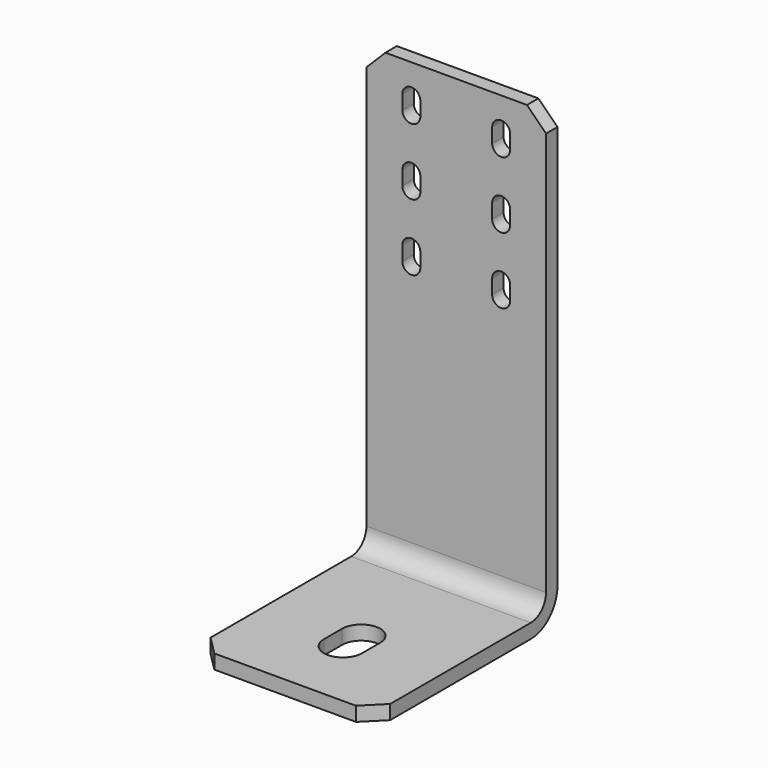
from build123d import *

# Parameters (mm, degrees)
F1_DEPTH = 30
F2_R     = 6.35
F3_R     = 11.1125
F4_SIZE  = 6.35
F6_DEPTH = 4.7635
F7_DEPTH = 4.7635
F9_DEPTH = 4.7635


with BuildPart() as f1:
    # F0 (on Right) → F1 (new body, symmetric)
    with BuildSketch(Plane.YZ):
        Polygon((-2.38125, 2.38125), (-73.81875, 2.38125), (-73.81875, -2.38125), (2.38125, -2.38125), (2.38125, 150.01875), (-2.38125, 150.01875), align=None)
    extrude(amount=F1_DEPTH, both=True)

    # F2
    f2_edges = [f1.edges().sort_by_distance(p)[0] for p in [
        (0, -2.38125, 2.38125),
    ]]
    fillet(f2_edges, radius=F2_R)

    # F3
    f3_edges = [f1.edges().sort_by_distance(p)[0] for p in [
        (0, 2.38125, -2.38125),
    ]]
    fillet(f3_edges, radius=F3_R)

    # F4
    f4_edges = [f1.edges().sort_by_distance(p)[0] for p in [
        (30, 0, 150.01875),
        (-30, 0, 150.01875),
        (-30, -73.81875, 0),
        (30, -73.81875, 0),
    ]]
    chamfer(f4_edges, length=F4_SIZE)

    # F5 (on face) → F6 (cut, through all)
    with BuildSketch(Plane.XY.offset(2.38125)):
        with BuildLine():
            ThreePointArc((5.08, -45.87875), (6.0241389426, -44.0767963142), (6.35, -42.06875))
            ThreePointArc((6.35, -42.06875), (0, -35.71875), (-6.35, -42.06875))
            ThreePointArc((-6.35, -42.06875), (-6.0241389426, -44.0767963142), (-5.08, -45.87875))
            ThreePointArc((-5.08, -45.87875), (0, -43.33875), (5.08, -45.87875))
        make_face()
        with BuildLine():
            Line((6.35, -49.68875), (6.35, -42.06875))
            ThreePointArc((6.35, -42.06875), (6.0241389426, -44.0767963142), (5.08, -45.87875))
            ThreePointArc((5.08, -45.87875), (6.0241389426, -47.6807036858), (6.35, -49.68875))
        make_face()
        with BuildLine():
            ThreePointArc((-5.08, -45.87875), (-6.0241389426, -44.0767963142), (-6.35, -42.06875))
            Line((-6.35, -42.06875), (-6.35, -49.68875))
            ThreePointArc((-6.35, -49.68875), (-6.0241389426, -47.6807036858), (-5.08, -45.87875))
        make_face()
        with BuildLine():
            ThreePointArc((6.35, -49.68875), (6.0241389426, -47.6807036858), (5.08, -45.87875))
            ThreePointArc((5.08, -45.87875), (0, -48.41875), (-5.08, -45.87875))
            ThreePointArc((-5.08, -45.87875), (-6.0241389426, -47.6807036858), (-6.35, -49.68875))
            ThreePointArc((-6.35, -49.68875), (0, -56.03875), (6.35, -49.68875))
        make_face()
    extrude(amount=-F6_DEPTH, mode=Mode.SUBTRACT)

    # F5 (on face) + F6_face (on face) → F7 (cut, through all)
    with BuildSketch(Plane.XY.offset(2.38125)):
        with BuildLine():
            ThreePointArc((5.08, -45.87875), (6.0241389426, -44.0767963142), (6.35, -42.06875))
            ThreePointArc((6.35, -42.06875), (0, -35.71875), (-6.35, -42.06875))
            ThreePointArc((-6.35, -42.06875), (-6.0241389426, -44.0767963142), (-5.08, -45.87875))
            ThreePointArc((-5.08, -45.87875), (0, -43.33875), (5.08, -45.87875))
        make_face()
        with BuildLine():
            Line((6.35, -49.68875), (6.35, -42.06875))
            ThreePointArc((6.35, -42.06875), (6.0241389426, -44.0767963142), (5.08, -45.87875))
            ThreePointArc((5.08, -45.87875), (6.0241389426, -47.6807036858), (6.35, -49.68875))
        make_face()
        with BuildLine():
            ThreePointArc((-5.08, -45.87875), (-6.0241389426, -44.0767963142), (-6.35, -42.06875))
            Line((-6.35, -42.06875), (-6.35, -49.68875))
            ThreePointArc((-6.35, -49.68875), (-6.0241389426, -47.6807036858), (-5.08, -45.87875))
        make_face()
        with BuildLine():
            ThreePointArc((6.35, -49.68875), (6.0241389426, -47.6807036858), (5.08, -45.87875))
            ThreePointArc((5.08, -45.87875), (0, -48.41875), (-5.08, -45.87875))
            ThreePointArc((-5.08, -45.87875), (-6.0241389426, -47.6807036858), (-6.35, -49.68875))
            ThreePointArc((-6.35, -49.68875), (0, -56.03875), (6.35, -49.68875))
        make_face()
    with BuildSketch(Plane(origin=(0, -45.87875, 2.38125), x_dir=(1, 0, 0), z_dir=(0, 0, 1))):
        with BuildLine():
            ThreePointArc((5.08, 0), (0, 2.54), (-5.08, 0))
            ThreePointArc((-5.08, 0), (0, -2.54), (5.08, 0))
        make_face()
    extrude(amount=-F7_DEPTH, mode=Mode.SUBTRACT)

    # F8 (on face) → F9 (cut, through all)
    with BuildSketch(Plane.XZ.offset(2.38125)):
        with BuildLine():
            ThreePointArc((-16.8201253466, 137.31875), (-17.686865044, 138.371856907), (-17.9972, 139.7))
            Line((-17.9972, 139.7), (-17.9972, 134.9375))
            ThreePointArc((-17.9972, 134.9375), (-17.686865044, 136.265643093), (-16.8201253466, 137.31875))
        make_face()
        with BuildLine():
            Line((-12.0028, 134.9375), (-12.0028, 139.7))
            ThreePointArc((-12.0028, 139.7), (-12.313134956, 138.371856907), (-13.1798746534, 137.31875))
            ThreePointArc((-13.1798746534, 137.31875), (-12.313134956, 136.265643093), (-12.0028, 134.9375))
        make_face()
        with BuildLine():
            ThreePointArc((-13.1798746534, 115.09375), (-12.313134956, 114.040643093), (-12.0028, 112.7125))
            Line((-12.0028, 112.7125), (-12.0028, 117.475))
            ThreePointArc((-12.0028, 117.475), (-12.313134956, 116.146856907), (-13.1798746534, 115.09375))
        make_face()
        with BuildLine():
            Line((-17.9972, 117.475), (-17.9972, 112.7125))
            ThreePointArc((-17.9972, 112.7125), (-17.686865044, 114.040643093), (-16.8201253466, 115.09375))
            ThreePointArc((-16.8201253466, 115.09375), (-17.686865044, 116.146856907), (-17.9972, 117.475))
        make_face()
        with BuildLine():
            ThreePointArc((-13.1798746534, 92.86875), (-12.313134956, 91.815643093), (-12.0028, 90.4875))
            Line((-12.0028, 90.4875), (-12.0028, 95.25))
            ThreePointArc((-12.0028, 95.25), (-12.313134956, 93.921856907), (-13.1798746534, 92.86875))
        make_face()
        with BuildLine():
            Line((-17.9972, 95.25), (-17.9972, 90.4875))
            ThreePointArc((-17.9972, 90.4875), (-17.686865044, 91.815643093), (-16.8201253466, 92.86875))
            ThreePointArc((-16.8201253466, 92.86875), (-17.686865044, 93.921856907), (-17.9972, 95.25))
        make_face()
        with BuildLine():
            ThreePointArc((13.1798746534, 92.86875), (12.313134956, 93.921856907), (12.0028, 95.25))
            Line((12.0028, 95.25), (12.0028, 90.4875))
            ThreePointArc((12.0028, 90.4875), (12.313134956, 91.815643093), (13.1798746534, 92.86875))
        make_face()
        with BuildLine():
            Line((17.9972, 90.4875), (17.9972, 95.25))
            ThreePointArc((17.9972, 95.25), (17.686865044, 93.921856907), (16.8201253466, 92.86875))
            ThreePointArc((16.8201253466, 92.86875), (17.686865044, 91.815643093), (17.9972, 90.4875))
        make_face()
        with BuildLine():
            Line((17.9972, 112.7125), (17.9972, 117.475))
            ThreePointArc((17.9972, 117.475), (17.686865044, 116.146856907), (16.8201253466, 115.09375))
            ThreePointArc((16.8201253466, 115.09375), (17.686865044, 114.040643093), (17.9972, 112.7125))
        make_face()
        with BuildLine():
            ThreePointArc((13.1798746534, 137.31875), (12.313134956, 138.371856907), (12.0028, 139.7))
            Line((12.0028, 139.7), (12.0028, 134.9375))
            ThreePointArc((12.0028, 134.9375), (12.313134956, 136.265643093), (13.1798746534, 137.31875))
        make_face()
        with BuildLine():
            Line((17.9972, 134.9375), (17.9972, 139.7))
            ThreePointArc((17.9972, 139.7), (17.686865044, 138.371856907), (16.8201253466, 137.31875))
            ThreePointArc((16.8201253466, 137.31875), (17.686865044, 136.265643093), (17.9972, 134.9375))
        make_face()
        with BuildLine():
            ThreePointArc((13.1798746534, 115.09375), (12.313134956, 116.146856907), (12.0028, 117.475))
            Line((12.0028, 117.475), (12.0028, 112.7125))
            ThreePointArc((12.0028, 112.7125), (12.313134956, 114.040643093), (13.1798746534, 115.09375))
        make_face()
        with BuildLine():
            ThreePointArc((-12.0028, 134.9375), (-12.313134956, 136.265643093), (-13.1798746534, 137.31875))
            ThreePointArc((-13.1798746534, 137.31875), (-15, 136.7028), (-16.8201253466, 137.31875))
            ThreePointArc((-16.8201253466, 137.31875), (-17.686865044, 136.265643093), (-17.9972, 134.9375))
            ThreePointArc((-17.9972, 134.9375), (-15, 131.9403), (-12.0028, 134.9375))
        make_face()
        with BuildLine():
            ThreePointArc((-16.8201253466, 115.09375), (-17.686865044, 114.040643093), (-17.9972, 112.7125))
            ThreePointArc((-17.9972, 112.7125), (-15, 109.7153), (-12.0028, 112.7125))
            ThreePointArc((-12.0028, 112.7125), (-12.313134956, 114.040643093), (-13.1798746534, 115.09375))
            ThreePointArc((-13.1798746534, 115.09375), (-15, 114.4778), (-16.8201253466, 115.09375))
        make_face()
        with BuildLine():
            ThreePointArc((-17.9972, 117.475), (-17.686865044, 116.146856907), (-16.8201253466, 115.09375))
            ThreePointArc((-16.8201253466, 115.09375), (-15, 115.7097), (-13.1798746534, 115.09375))
            ThreePointArc((-13.1798746534, 115.09375), (-12.313134956, 116.146856907), (-12.0028, 117.475))
            ThreePointArc((-12.0028, 117.475), (-15, 120.4722), (-17.9972, 117.475))
        make_face()
        with BuildLine():
            ThreePointArc((-16.8201253466, 92.86875), (-17.686865044, 91.815643093), (-17.9972, 90.4875))
            ThreePointArc((-17.9972, 90.4875), (-15, 87.4903), (-12.0028, 90.4875))
            ThreePointArc((-12.0028, 90.4875), (-12.313134956, 91.815643093), (-13.1798746534, 92.86875))
            ThreePointArc((-13.1798746534, 92.86875), (-15, 92.2528), (-16.8201253466, 92.86875))
        make_face()
        with BuildLine():
            ThreePointArc((-17.9972, 95.25), (-17.686865044, 93.921856907), (-16.8201253466, 92.86875))
            ThreePointArc((-16.8201253466, 92.86875), (-15, 93.4847), (-13.1798746534, 92.86875))
            ThreePointArc((-13.1798746534, 92.86875), (-12.313134956, 93.921856907), (-12.0028, 95.25))
            ThreePointArc((-12.0028, 95.25), (-15, 98.2472), (-17.9972, 95.25))
        make_face()
        with BuildLine():
            ThreePointArc((17.9972, 139.7), (15, 142.6972), (12.0028, 139.7))
            ThreePointArc((12.0028, 139.7), (12.313134956, 138.371856907), (13.1798746534, 137.31875))
            ThreePointArc((13.1798746534, 137.31875), (15, 137.9347), (16.8201253466, 137.31875))
            ThreePointArc((16.8201253466, 137.31875), (17.686865044, 138.371856907), (17.9972, 139.7))
        make_face()
        with BuildLine():
            ThreePointArc((13.1798746534, 137.31875), (12.313134956, 136.265643093), (12.0028, 134.9375))
            ThreePointArc((12.0028, 134.9375), (15, 131.9403), (17.9972, 134.9375))
            ThreePointArc((17.9972, 134.9375), (17.686865044, 136.265643093), (16.8201253466, 137.31875))
            ThreePointArc((16.8201253466, 137.31875), (15, 136.7028), (13.1798746534, 137.31875))
        make_face()
        with BuildLine():
            ThreePointArc((17.9972, 95.25), (15, 98.2472), (12.0028, 95.25))
            ThreePointArc((12.0028, 95.25), (12.313134956, 93.921856907), (13.1798746534, 92.86875))
            ThreePointArc((13.1798746534, 92.86875), (15, 93.4847), (16.8201253466, 92.86875))
            ThreePointArc((16.8201253466, 92.86875), (17.686865044, 93.921856907), (17.9972, 95.25))
        make_face()
        with BuildLine():
            ThreePointArc((13.1798746534, 92.86875), (12.313134956, 91.815643093), (12.0028, 90.4875))
            ThreePointArc((12.0028, 90.4875), (15, 87.4903), (17.9972, 90.4875))
            ThreePointArc((17.9972, 90.4875), (17.686865044, 91.815643093), (16.8201253466, 92.86875))
            ThreePointArc((16.8201253466, 92.86875), (15, 92.2528), (13.1798746534, 92.86875))
        make_face()
        with BuildLine():
            ThreePointArc((16.8201253466, 115.09375), (17.686865044, 116.146856907), (17.9972, 117.475))
            ThreePointArc((17.9972, 117.475), (15, 120.4722), (12.0028, 117.475))
            ThreePointArc((12.0028, 117.475), (12.313134956, 116.146856907), (13.1798746534, 115.09375))
            ThreePointArc((13.1798746534, 115.09375), (15, 115.7097), (16.8201253466, 115.09375))
        make_face()
        with BuildLine():
            ThreePointArc((12.0028, 112.7125), (15, 109.7153), (17.9972, 112.7125))
            ThreePointArc((17.9972, 112.7125), (17.686865044, 114.040643093), (16.8201253466, 115.09375))
            ThreePointArc((16.8201253466, 115.09375), (15, 114.4778), (13.1798746534, 115.09375))
            ThreePointArc((13.1798746534, 115.09375), (12.313134956, 114.040643093), (12.0028, 112.7125))
        make_face()
        with BuildLine():
            ThreePointArc((-16.8201253466, 137.31875), (-15, 136.7028), (-13.1798746534, 137.31875))
            ThreePointArc((-13.1798746534, 137.31875), (-15, 137.9347), (-16.8201253466, 137.31875))
        make_face()
        with BuildLine():
            ThreePointArc((-13.1798746534, 137.31875), (-12.313134956, 138.371856907), (-12.0028, 139.7))
            ThreePointArc((-12.0028, 139.7), (-15, 142.6972), (-17.9972, 139.7))
            ThreePointArc((-17.9972, 139.7), (-17.686865044, 138.371856907), (-16.8201253466, 137.31875))
            ThreePointArc((-16.8201253466, 137.31875), (-15, 137.9347), (-13.1798746534, 137.31875))
        make_face()
        with BuildLine():
            ThreePointArc((-13.1798746534, 115.09375), (-15, 115.7097), (-16.8201253466, 115.09375))
            ThreePointArc((-16.8201253466, 115.09375), (-15, 114.4778), (-13.1798746534, 115.09375))
        make_face()
        with BuildLine():
            ThreePointArc((16.8201253466, 137.31875), (15, 137.9347), (13.1798746534, 137.31875))
            ThreePointArc((13.1798746534, 137.31875), (15, 136.7028), (16.8201253466, 137.31875))
        make_face()
        with BuildLine():
            ThreePointArc((13.1798746534, 115.09375), (15, 114.4778), (16.8201253466, 115.09375))
            ThreePointArc((16.8201253466, 115.09375), (15, 115.7097), (13.1798746534, 115.09375))
        make_face()
        with BuildLine():
            ThreePointArc((16.8201253466, 92.86875), (15, 93.4847), (13.1798746534, 92.86875))
            ThreePointArc((13.1798746534, 92.86875), (15, 92.2528), (16.8201253466, 92.86875))
        make_face()
        with BuildLine():
            ThreePointArc((-13.1798746534, 92.86875), (-15, 93.4847), (-16.8201253466, 92.86875))
            ThreePointArc((-16.8201253466, 92.86875), (-15, 92.2528), (-13.1798746534, 92.86875))
        make_face()
    extrude(amount=-F9_DEPTH, mode=Mode.SUBTRACT)


solid = f1.part
